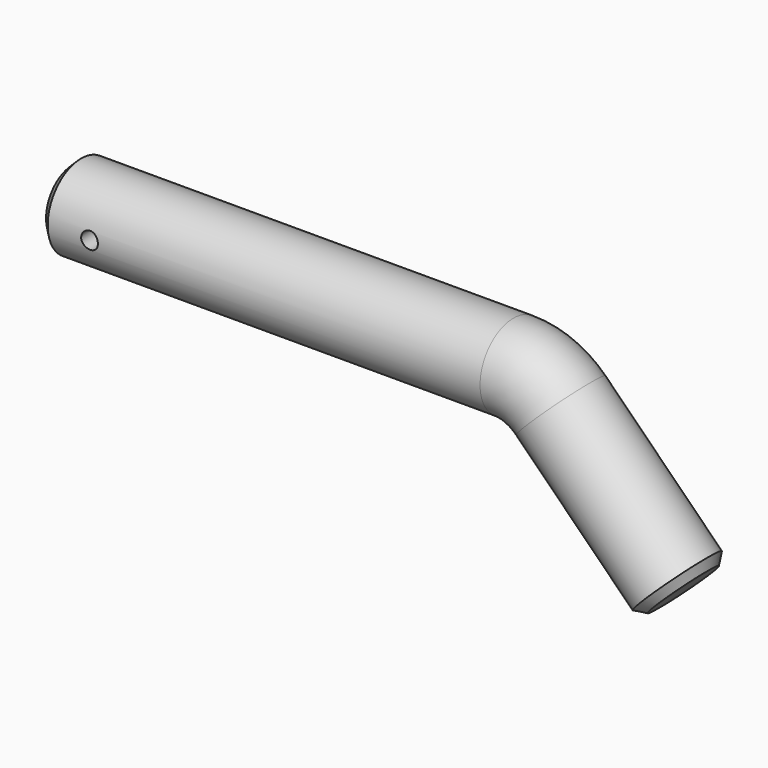
from build123d import *

# Parameters (mm, degrees)
F1_R     = 7.9375
F4_D     = 3.175
F4_DEPTH = 7.9385001
F5_D     = 3.175
F6_SIZE  = 1.5875


with BuildPart() as f2:
    # F2: sweep along a path in F0
    with BuildLine(Plane.XZ) as f2_path:
        Line((0, 0), (83.6394877579, 0))
        ThreePointArc((83.6394877579, 0), (88.4995673489, -0.9667299371), (92.6197438789, -3.7197438789))
        Line((92.6197438789, -3.7197438789), (115.8407683632, -26.9407683632))
    # F1 (on Right) → F2 (sweep)
    with BuildSketch(Plane.YZ):
        Circle(F1_R)
    sweep(path=f2_path.line)

    # F4 (through all, one way)
    with BuildSketch(Plane.XZ):
        with Locations((9.525, 0)):
            Circle(F4_D / 2)
    extrude(amount=-F4_DEPTH, mode=Mode.SUBTRACT)

    # F5 (through all)
    with Locations(Plane(origin=(0, 0, 0), x_dir=(1, 0, 0), z_dir=(0, 1, 0))):
        with Locations((9.525, 0)):
            Hole(F5_D / 2)

    # F6
    f6_edges = [f2.edges().sort_by_distance(p)[0] for p in [
        (0, -7.9375, 0),
        (115.840768, -7.9375, -26.940768),
    ]]
    chamfer(f6_edges, length=F6_SIZE)


solid = f2.part
